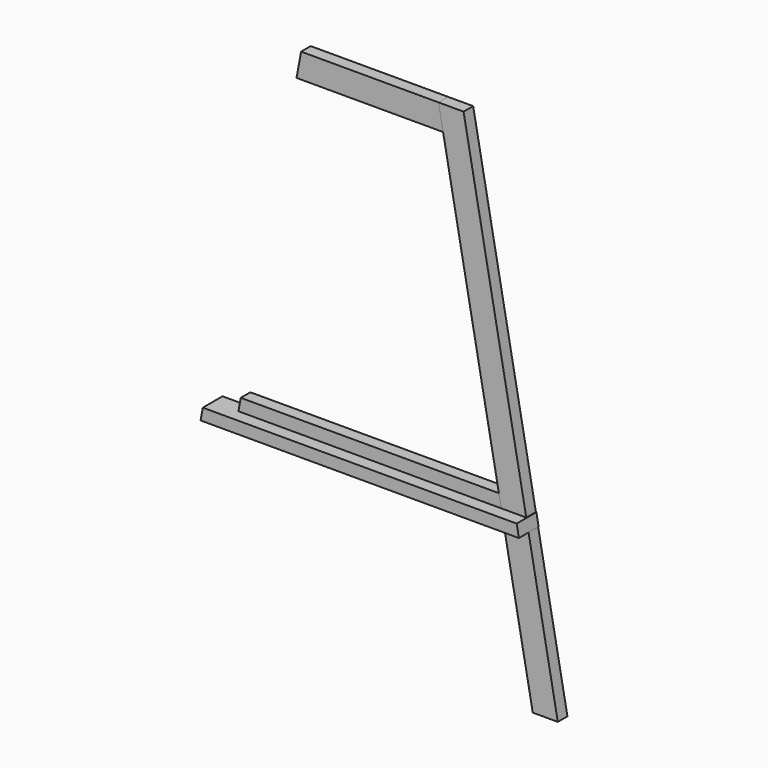
from build123d import *

# Parameters (mm, degrees)
F8_DEPTH  = 21
F9_DEPTH  = 21
F10_DEPTH = 21
F11_DEPTH = 21
F12_DEPTH = 43


with BuildPart() as f8:
    # F3 (on Front) → F8 (new body)
    with BuildSketch(Plane.XZ):
        Polygon((688.3549800219, 15.1829554648), (523.7378554573, 900), (480, 900), (644.6171245647, 15.1829554648), align=None)
    extrude(amount=F8_DEPTH)


with BuildPart() as f9:
    # F4 (on Front) → F9 (new body)
    with BuildSketch(Plane.XZ):
        Polygon((480, 900), (593.4029080334, 290.4593693202), (637.1407634907, 290.4593693202), (523.7378554573, 900), align=None)
    extrude(amount=F9_DEPTH)


with BuildPart() as f10:
    # F5 (on Front) → F10 (new body)
    with BuildSketch(Plane.XZ):
        Polygon((480, 900), (360, 900), (240, 900), (232, 857), (360, 857), (488, 857), align=None)
    extrude(amount=F10_DEPTH)


with BuildPart() as f11:
    # F6 (on Front) → F11 (new body)
    with BuildSketch(Plane.XZ):
        Polygon((126.5970919666, 290.4593693202), (360, 290.4593693202), (593.4029080334, 290.4593693202), (585.4029080334, 333.4593693202), (360, 333.4593693202), (134.5970919666, 333.4593693202), align=None)
    extrude(amount=F11_DEPTH)


with BuildPart() as f12:
    # F7 (on Front) → F12 (new body)
    with BuildSketch(Plane.XZ):
        Polygon((82, 290.4593693202), (360, 290.4593693202), (638, 290.4593693202), (634.0930232558, 311.4593693202), (360, 311.4593693202), (85.9069767442, 311.4593693202), align=None)
    extrude(amount=F12_DEPTH)


solid = Compound([f8.part, f9.part, f10.part, f11.part, f12.part])
